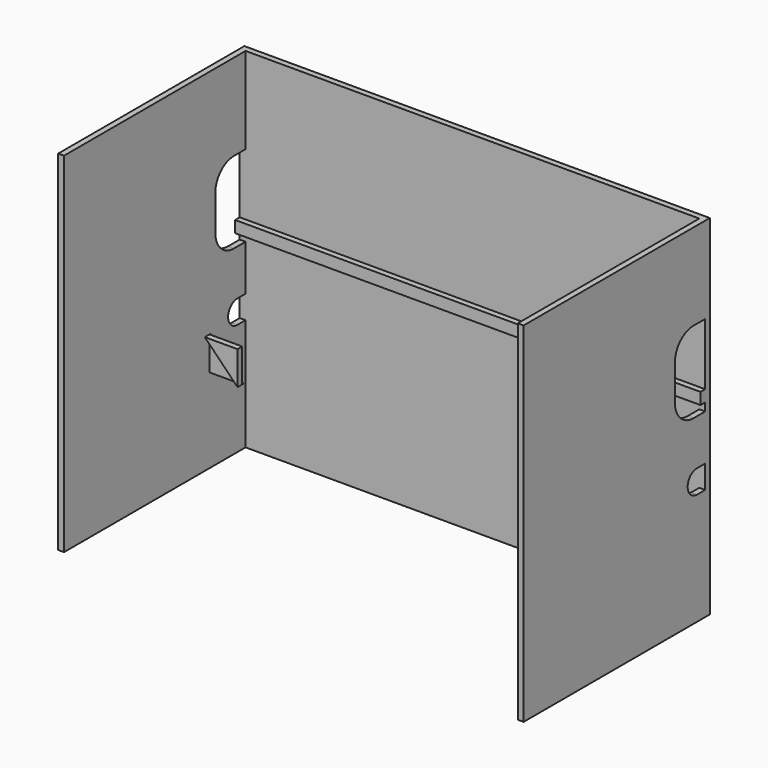
from build123d import *

# Parameters (mm, degrees)
F0_W      = 2032
F0_H      = 1524
F1_DEPTH  = 1016
F2_T      = -25.4
F4_DEPTH  = 50.8
F6_DEPTH  = 50.8
F8_DEPTH  = 50.8
F10_DEPTH = 50.8
F12_DEPTH = 25.4
F13_W     = 1981.2
F13_H     = 990.6
F14_DEPTH = 50.8
F15_W     = 6.35
F15_H     = 146.05
F16_DEPTH = 142.875
F18_DEPTH = 25.4
F19_DEPTH = 25.4


with BuildPart() as f1:
    # F0 (on Front) → F1 (new body)
    with BuildSketch(Plane.XZ):
        Rectangle(F0_W, F0_H)
    extrude(amount=F1_DEPTH)

    # F2
    f2_openings = [f1.faces().sort_by_distance(p)[0] for p in [
        (0, -1016, 0),
        (0, -508, 762),
    ]]
    offset(amount=F2_T, openings=f2_openings)

    # F3 (on face) → F4 (cut)
    with BuildSketch(Plane.YZ.offset(-990.6)):
        with BuildLine():
            Line((-88.9, 28.575), (-25.4, 28.575))
            Line((-25.4, 28.575), (-25.4, 384.175))
            Line((-25.4, 384.175), (-88.9, 384.175))
            ThreePointArc((-88.9, 384.175), (-160.742049, 354.417049), (-190.5, 282.575))
            Line((-190.5, 282.575), (-190.5, 130.175))
            ThreePointArc((-190.5, 130.175), (-160.742049, 58.332951), (-88.9, 28.575))
        make_face()
    extrude(amount=-F4_DEPTH, mode=Mode.SUBTRACT)

    # F5 (on face) → F6 (cut)
    with BuildSketch(Plane.YZ.offset(-990.6)):
        with BuildLine():
            Line((-69.85, -273.05), (-25.4, -273.05))
            Line((-25.4, -273.05), (-25.4, -171.45))
            Line((-25.4, -171.45), (-69.85, -171.45))
            ThreePointArc((-69.85, -171.45), (-105.771024, -186.328976), (-120.65, -222.25))
            ThreePointArc((-120.65, -222.25), (-105.771024, -258.171024), (-69.85, -273.05))
        make_face()
    extrude(amount=-F6_DEPTH, mode=Mode.SUBTRACT)

    # F7 (on face) → F8 (cut)
    with BuildSketch(Plane(origin=(990.6, 0, 0), x_dir=(0, -1, 0), z_dir=(-1, 0, 0))):
        with BuildLine():
            Line((25.4, 384.175), (25.4, 28.575))
            Line((25.4, 28.575), (88.9, 28.575))
            ThreePointArc((88.9, 28.575), (160.742049, 58.332951), (190.5, 130.175))
            Line((190.5, 130.175), (190.5, 282.575))
            ThreePointArc((190.5, 282.575), (160.742049, 354.417049), (88.9, 384.175))
            Line((88.9, 384.175), (25.4, 384.175))
        make_face()
    extrude(amount=-F8_DEPTH, mode=Mode.SUBTRACT)

    # F9 (on face) → F10 (cut)
    with BuildSketch(Plane(origin=(990.6, 0, 0), x_dir=(0, -1, 0), z_dir=(-1, 0, 0))):
        with BuildLine():
            Line((25.4, -171.45), (25.4, -273.05))
            Line((25.4, -273.05), (69.85, -273.05))
            ThreePointArc((69.85, -273.05), (105.771024, -258.171024), (120.65, -222.25))
            ThreePointArc((120.65, -222.25), (105.771024, -186.328976), (69.85, -171.45))
            Line((69.85, -171.45), (25.4, -171.45))
        make_face()
    extrude(amount=-F10_DEPTH, mode=Mode.SUBTRACT)

    # F11 (on face) → F12 (join)
    with BuildSketch(Plane.XZ.offset(25.4)):
        Polygon((-1016, 63.5), (-990.6, 63.5), (1016, 63.5), (1016, 114.3), (-1016, 114.3), align=None)
    extrude(amount=F12_DEPTH)

    # F13 (on face) → F14 (cut)
    with BuildSketch(Plane.XY.offset(-736.6)):
        with Locations((0, -520.7)):
            Rectangle(F13_W, F13_H)
    extrude(amount=-F14_DEPTH, mode=Mode.SUBTRACT)

    # F15 (on face) → F16 (join)
    with BuildSketch(Plane.YZ.offset(-990.6)):
        with Locations((-219.075, -320.675)):
            Rectangle(F15_W, F15_H)
    extrude(amount=F16_DEPTH)

    # F17 (on face) → F18 (cut)
    with BuildSketch(Plane.XZ.offset(222.25)):
        Polygon((-990.6, -247.65), (-847.725, -393.7), (-847.725, -247.65), align=None)
    extrude(amount=-F18_DEPTH, mode=Mode.SUBTRACT)

    # F17 (on face) → F19 (join)
    with BuildSketch(Plane.XZ.offset(222.25)):
        Polygon((-990.6, -247.65), (-847.725, -393.7), (-847.725, -247.65), align=None)
    extrude(amount=F19_DEPTH)


solid = f1.part
